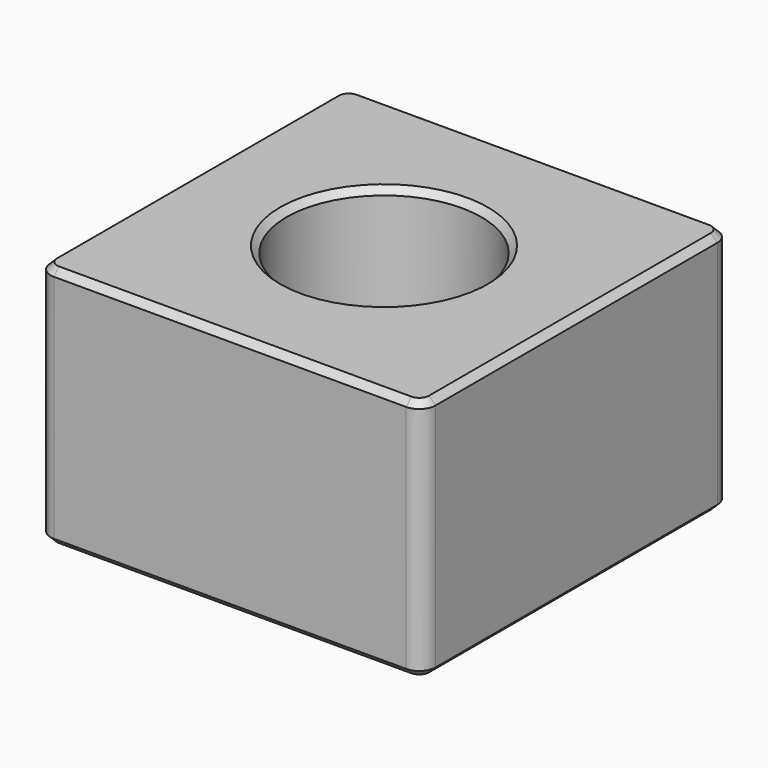
from build123d import *

# Parameters (mm, degrees)
SKETCH_W           = 23.7
SKETCH_H           = 23.7
PAD_DEPTH          = 15
FILLET003_R        = 1
CHAMFER002007_SIZE = 0.4


with BuildPart() as part:
    # Sketch → Pad (new body)
    with BuildSketch(Plane.XY):
        Rectangle(SKETCH_W, SKETCH_H)
    extrude(amount=PAD_DEPTH)

    # Fillet003
    fillet003_edges = [part.edges().sort_by_distance(p)[0] for p in [
        (-11.85, 11.85, 7.5),
        (-11.85, -11.85, 7.5),
        (11.85, 11.85, 7.5),
        (11.85, -11.85, 7.5),
    ]]
    fillet(fillet003_edges, radius=FILLET003_R)

    # Sketch001 → Groove (revolve, cut)
    with BuildSketch(Plane.XZ):
        Polygon((0, 0), (0, 15), (-6, 15), (-6, 6), (-4, 3), (-4, 0), align=None)
    revolve(axis=Axis((0, 0, 0), (0, 0, 1)), mode=Mode.SUBTRACT)

    # Chamfer002007
    chamfer002007_edges = [part.edges().sort_by_distance(p)[0] for p in [
        (0, 11.85, 15),
        (-11.557107, 11.557107, 15),
        (11.557107, 11.557107, 15),
        (-11.85, 0, 15),
        (11.85, 0, 15),
        (-11.557107, -11.557107, 15),
        (11.557107, -11.557107, 15),
        (0, -11.85, 15),
        (6, 0, 15),
        (0, 11.85, 0),
        (-11.557107, 11.557107, 0),
        (11.557107, 11.557107, 0),
        (-11.85, 0, 0),
        (11.85, 0, 0),
        (-11.557107, -11.557107, 0),
        (11.557107, -11.557107, 0),
        (0, -11.85, 0),
        (4, 0, 0),
        (4, 0, 3),
        (6, 0, 6),
    ]]
    chamfer(chamfer002007_edges, length=CHAMFER002007_SIZE)


with BuildPart() as part_1:
    # Body placement: moved
    add(part.part.moved(Location((0, 0, -5))))


solid = part_1.part
